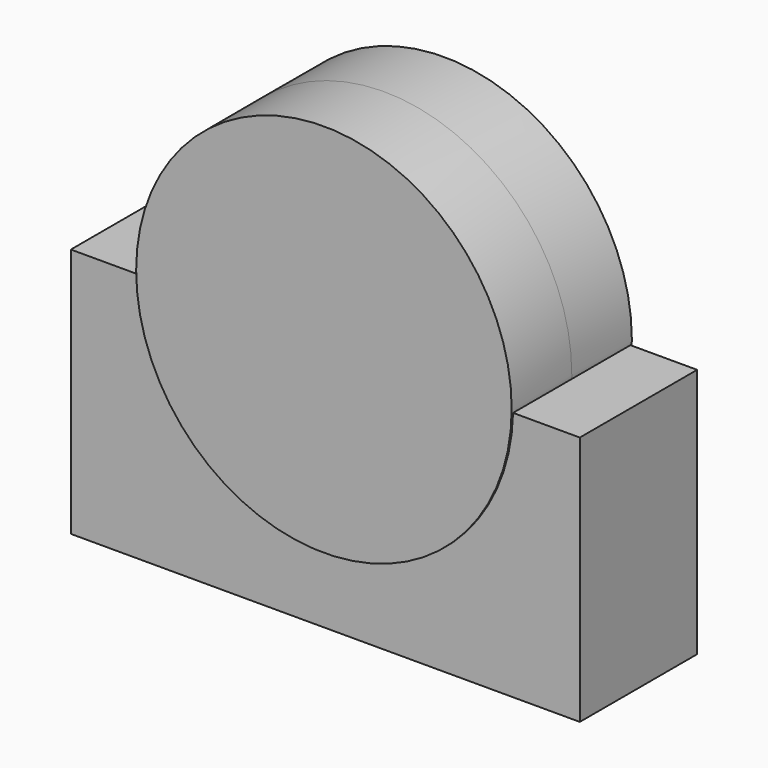
from build123d import *

# Parameters (mm, degrees)
F0_W          = 51.637176
F0_H          = 14.878482
F1_DEPTH      = 25.4
F2_R          = 19.05
F3_DEPTH      = 7.62
F3_DEPTH_BACK = 7.62


with BuildPart() as f1:
    # F0 (on Top) → F1 (new body)
    with BuildSketch(Plane.XY):
        Rectangle(F0_W, F0_H)
    extrude(amount=F1_DEPTH)

    # F2 (on Front) → F3 (join, two sides)
    with BuildSketch(Plane.XZ) as f3_sk:
        with Locations((0, 25.829185)):
            Circle(F2_R)
    extrude(amount=F3_DEPTH)
    extrude(f3_sk.sketch, amount=-F3_DEPTH_BACK)


solid = f1.part
